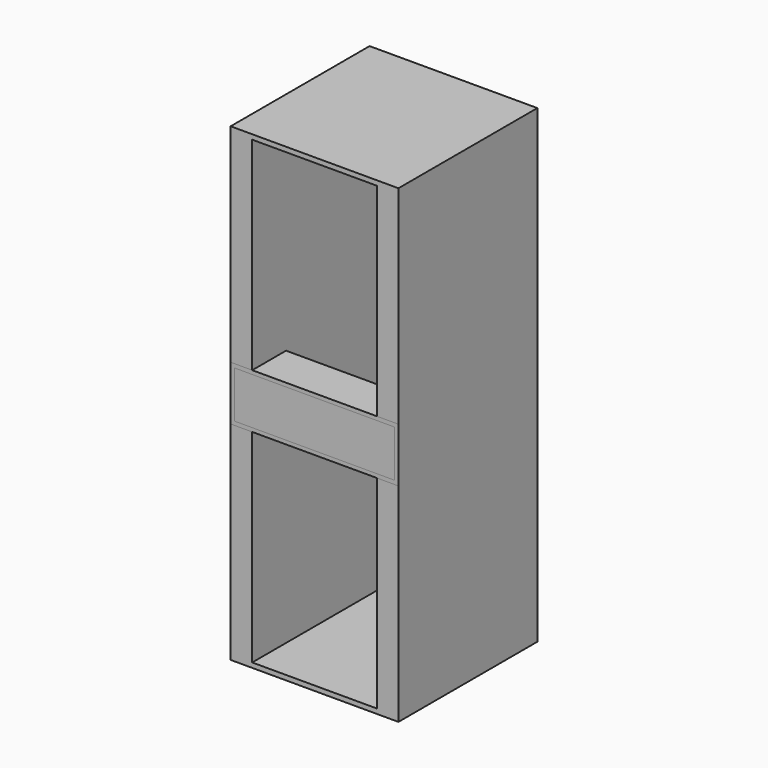
from build123d import *

# Parameters (mm, degrees)
F0_W     = 111.125
F0_H     = 311.15
F2_DEPTH = 115
F1_W     = 82.55
F1_H     = 304.8
F3_DEPTH = 112
F4_W     = 111
F4_H     = 36
F5_DEPTH = 28
F6_W     = 106
F6_H     = 31
F7_DEPTH = 28


with BuildPart() as f2:
    # F0 (on Front) → F2 (new body)
    with BuildSketch(Plane.XZ):
        Rectangle(F0_W, F0_H)
    extrude(amount=-F2_DEPTH)


with BuildPart() as f2b:
    # F1 (on Front) → F2, piece 2 (new body)
    with BuildSketch(Plane.XZ):
        Rectangle(F1_W, F1_H)
    extrude(amount=-F2_DEPTH)


with BuildPart() as f3_tool:
    # F1 (on Front) → F3 (new body)
    with BuildSketch(Plane.XZ):
        Rectangle(F1_W, F1_H)
    extrude(amount=-F3_DEPTH)


with BuildPart() as f2_1:
    add(f2.part)

    # F3: cut by f3_tool
    add(f3_tool.part, mode=Mode.SUBTRACT)


with BuildPart() as f2b_1:
    add(f2b.part)

    # F3: cut by f3_tool
    add(f3_tool.part, mode=Mode.SUBTRACT)


with BuildPart() as f5:
    # F4 (on Front) → F5 (new body)
    with BuildSketch(Plane.XZ):
        Rectangle(F4_W, F4_H)
    extrude(amount=-F5_DEPTH)


with BuildPart() as f7:
    # F6 (on Front) → F7 (new body)
    with BuildSketch(Plane.XZ):
        Rectangle(F6_W, F6_H)
    extrude(amount=-F7_DEPTH)


solid = Compound([f2_1.part, f5.part, f7.part])
